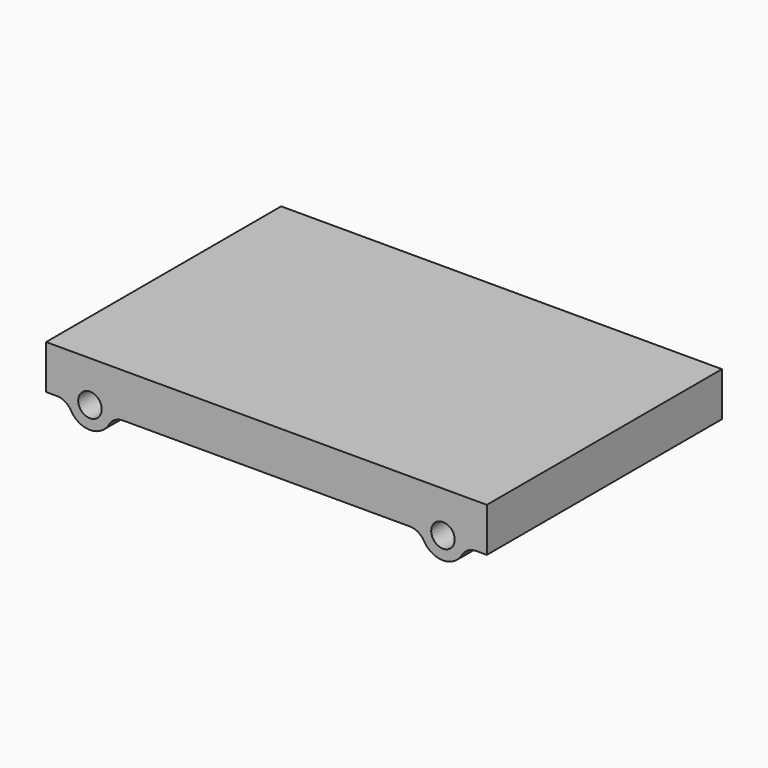
from build123d import *

# Parameters (mm, degrees)
SKETCH_R  = 8
PAD_DEPTH = 200
FILLET_R  = 11


with BuildPart() as part:
    # Sketch → Pad (new body)
    with BuildSketch(Plane.XZ):
        with BuildLine():
            Line((-150, 15), (150, 15))
            Line((150, 15), (150, -15))
            Line((150, -15), (135, -15))
            ThreePointArc((105.267863, -15), (120.133931, -28), (135, -15))
            Line((105.267863, -15), (-105.267863, -15))
            ThreePointArc((-135, -15), (-120.133931, -28), (-105.267863, -15))
            Line((-135, -15), (-150, -15))
            Line((-150, -15), (-150, 15))
        make_face()
        with Locations((-120.133931, -13)):
            Circle(SKETCH_R, mode=Mode.SUBTRACT)
        with Locations((120.133931, -13)):
            Circle(SKETCH_R, mode=Mode.SUBTRACT)
    extrude(amount=PAD_DEPTH)

    # Fillet
    fillet_edges = [part.edges().sort_by_distance(p)[0] for p in [
        (-135, -100, -15),
        (-105.267863, -100, -15),
        (105.267863, -100, -15),
        (135, -100, -15),
    ]]
    fillet(fillet_edges, radius=FILLET_R)


solid = part.part
